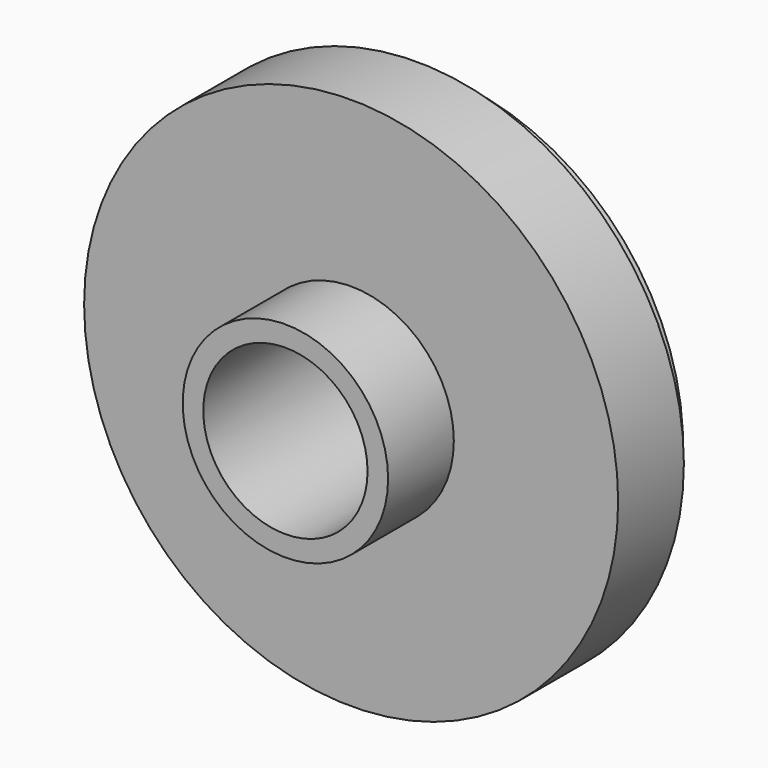
from build123d import *

# Parameters (mm, degrees)
F0_R     = 32.5
F1_DEPTH = 10
F2_R     = 12.5
F3_DEPTH = 10
F4_R     = 10
F5_DEPTH = 20
F6_R     = 30
F6_R_2   = 29.5
F7_DEPTH = 3


with BuildPart() as f1:
    # F0 (on Front) → F1 (new body)
    with BuildSketch(Plane.XZ):
        Circle(F0_R)
    extrude(amount=-F1_DEPTH)

    # F2 (on face) → F3 (join)
    with BuildSketch(Plane.XZ):
        Circle(F2_R)
    extrude(amount=F3_DEPTH)

    # F4 (on face) → F5 (cut)
    with BuildSketch(Plane.XZ.offset(10)):
        Circle(F4_R)
    extrude(amount=-F5_DEPTH, mode=Mode.SUBTRACT)

    # F6 (on face) → F7 (join)
    with BuildSketch(Plane(origin=(0, 10, 0), x_dir=(-1, 0, 0), z_dir=(0, 1, 0))):
        Circle(F6_R)
        Circle(F6_R_2, mode=Mode.SUBTRACT)
    extrude(amount=F7_DEPTH)


solid = f1.part
